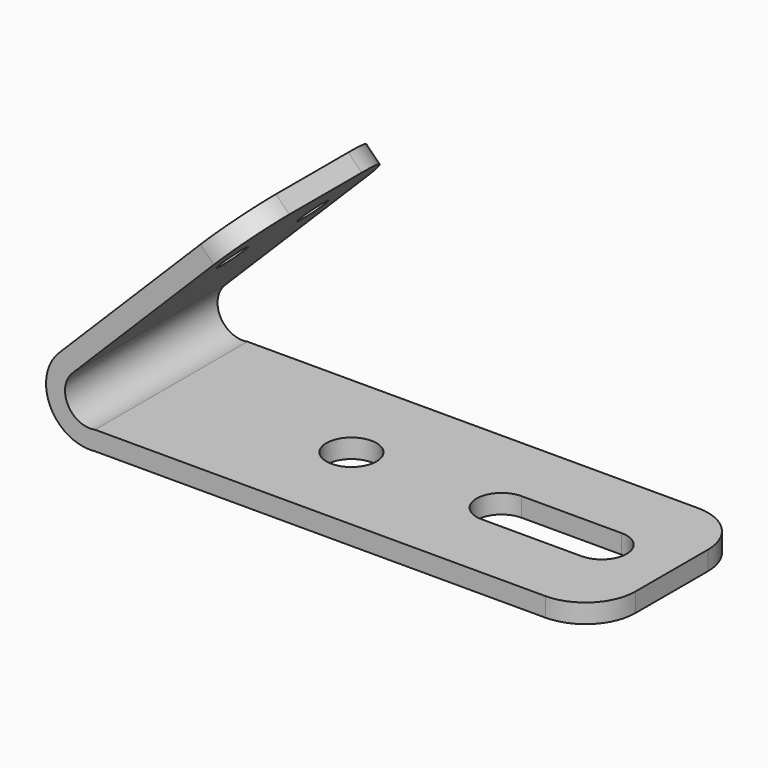
from build123d import *

# Parameters (mm, degrees)
F0_W     = 1270
F0_H     = 483.87
F0_R     = 63.5
F1_DEPTH = 48.26
F2_R     = 127
F4_DEPTH = 241.935
F5_R     = 127
F6_R     = 38.1
F7_DEPTH = 48.26


with BuildPart() as f1:
    # F0 (on Top) → F1 (new body)
    with BuildSketch(Plane.XY):
        Rectangle(F0_W, F0_H)
        with Locations((-177.8, 0)):
            Circle(F0_R, mode=Mode.SUBTRACT)
        with BuildLine():
            ThreePointArc((203.2, -63.5), (139.7, 0), (203.2, 63.5))
            Line((203.2, 63.5), (457.2, 63.5))
            ThreePointArc((457.2, 63.5), (502.1012806053, 44.9012806053), (520.7, 0))
            ThreePointArc((520.7, 0), (502.1012806053, -44.9012806053), (457.2, -63.5))
            Line((457.2, -63.5), (203.2, -63.5))
        make_face(mode=Mode.SUBTRACT)
    extrude(amount=F1_DEPTH)

    # F2
    f2_edges = [f1.edges().sort_by_distance(p)[0] for p in [
        (635, -241.935, 24.13),
        (635, 241.935, 24.13),
    ]]
    fillet(f2_edges, radius=F2_R)

    # F3 (on Front) → F4 (join, symmetric)
    with BuildSketch(Plane.XZ):
        Polygon((-726.6860883433, 190.0669049397), (-692.5611150833, 155.9419316796), (-243.5483090298, 604.954737733), (-277.6732822899, 639.0797109931), align=None)
        with BuildLine():
            Line((-635, 0), (-635, 48.26))
            ThreePointArc((-635, 48.26), (-703.7129217961, 80.7552174998), (-692.5611150833, 155.9419316796))
            Line((-692.5611150833, 155.9419316796), (-726.6860883433, 190.0669049397))
            ThreePointArc((-726.6860883433, 190.0669049397), (-748.3200674099, 62.4833127402), (-635, 0))
        make_face()
    extrude(amount=F4_DEPTH, both=True)

    # F5
    f5_edges = [f1.edges().sort_by_distance(p)[0] for p in [
        (-260.610796, 241.935, 622.017224),
        (-260.610796, -241.935, 622.017224),
    ]]
    fillet(f5_edges, radius=F5_R)

    # F6 (on face) → F7 (cut)
    with BuildSketch(Plane(origin=(-458.3764966415, 0, 458.3764966415), x_dir=(0, -1, 0), z_dir=(-0.7071067812, 0, 0.7071067812))):
        with Locations((-127.635, 65.0529365005)):
            Circle(F6_R)
        with BuildLine():
            ThreePointArc((165.735, 65.0529365005), (127.635, 103.1529365005), (89.535, 65.0529365005))
            ThreePointArc((89.535, 65.0529365005), (127.635, 26.9529365005), (165.735, 65.0529365005))
        make_face()
    extrude(amount=-F7_DEPTH, mode=Mode.SUBTRACT)


solid = f1.part
